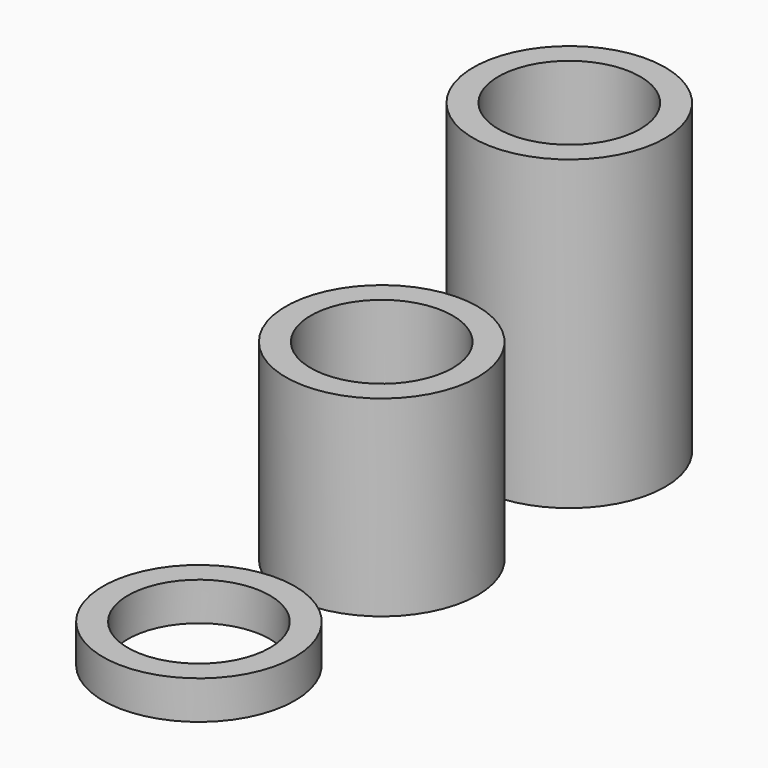
from build123d import *

# Parameters (mm, degrees)
F0_R     = 2.5
F0_R_2   = 1.85
F1_DEPTH = 8
F2_DEPTH = 5
F3_DEPTH = 1


with BuildPart() as f1:
    # F0 (on Top) → F1 (new body)
    with BuildSketch(Plane.XY):
        Circle(F0_R)
        Circle(F0_R_2, mode=Mode.SUBTRACT)
    extrude(amount=F1_DEPTH)


with BuildPart() as f2:
    # F0 (on Top) → F2 (new body)
    with BuildSketch(Plane.XY):
        with Locations((0, -6.111133)):
            Circle(F0_R)
        with Locations((0, -6.111133)):
            Circle(F0_R_2, mode=Mode.SUBTRACT)
    extrude(amount=F2_DEPTH)


with BuildPart() as f3:
    # F0 (on Top) → F3 (new body)
    with BuildSketch(Plane.XY):
        with Locations((0, -12.065846)):
            Circle(F0_R)
        with Locations((0, -12.065846)):
            Circle(F0_R_2, mode=Mode.SUBTRACT)
    extrude(amount=F3_DEPTH)


solid = Compound([f1.part, f2.part, f3.part])
